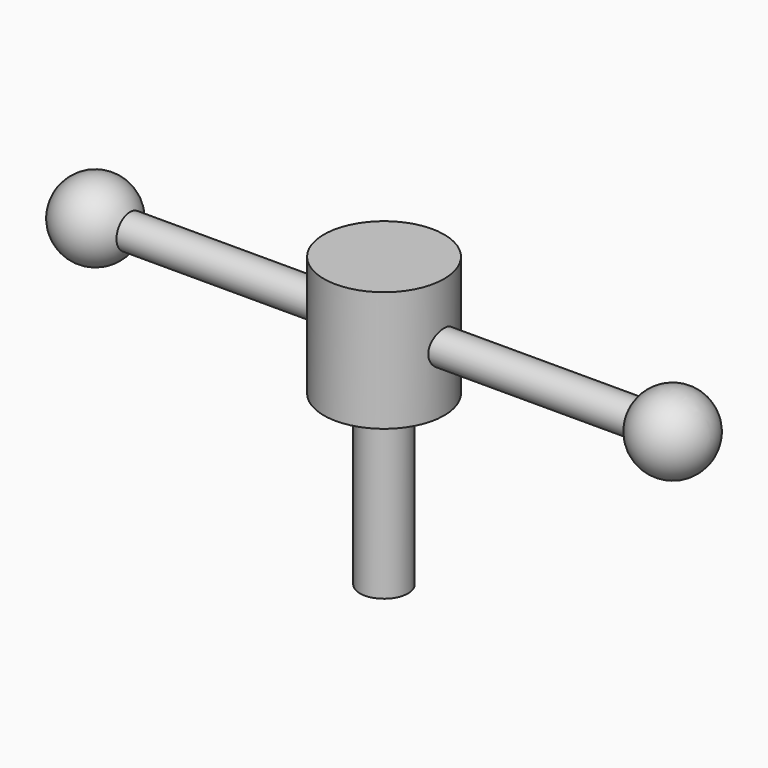
from build123d import *

# Parameters (mm, degrees)
F2_R     = 4.445
F3_DEPTH = 76.2
F4_R     = 15.875
F5_DEPTH = 15.875
F6_R     = 6.35
F7_DEPTH = 76.2


with BuildPart() as f1:
    # F0 (on Front) → F1 (revolve)
    with BuildSketch(Plane.XZ):
        with BuildLine():
            ThreePointArc((-86.36, 0), (-76.2, -10.16), (-66.04, 0))
            Line((-66.04, 0), (-86.36, 0))
        make_face()
    revolve(axis=Axis((0, 0, 0), (1, 0, 0)))



with BuildPart() as f1b:
    # F0 (on Front) → F1, piece 2 (revolve)
    with BuildSketch(Plane.XZ):
        with BuildLine():
            ThreePointArc((86.36, 0), (76.2, 10.16), (66.04, 0))
            Line((66.04, 0), (86.36, 0))
        make_face()
    revolve(axis=Axis((0, 0, 0), (1, 0, 0)))


with BuildPart() as f1_1:
    add(f1.part)

    add(f1b.part)  # F3 merges F1b
    # F2 (on Right) → F3 (join, symmetric)
    with BuildSketch(Plane.YZ):
        Circle(F2_R)
    extrude(amount=F3_DEPTH, both=True)

    # F4 (on Top) → F5 (join, symmetric)
    with BuildSketch(Plane.XY):
        Circle(F4_R)
    extrude(amount=F5_DEPTH, both=True)

    # F6 (on face) → F7 (join)
    with BuildSketch(Plane.XY.offset(15.875)):
        Circle(F6_R)
    extrude(amount=-F7_DEPTH)


solid = f1_1.part
